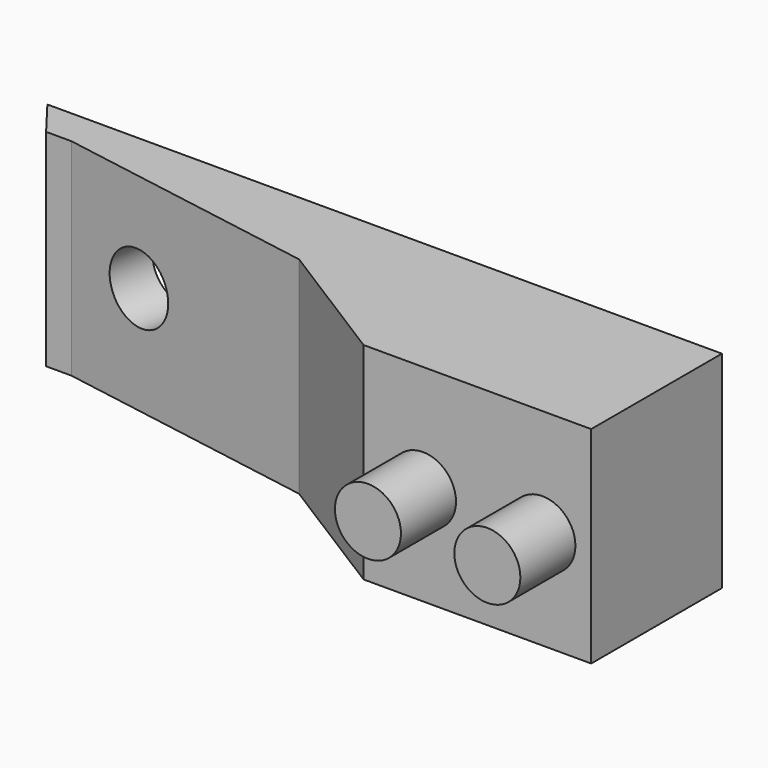
from build123d import *

# Parameters (mm, degrees)
PAD041_DEPTH    = 15
SKETCH095_R     = 2.5
POCKET045_DEPTH = 5
SKETCH096_R     = 2.4
PAD042_DEPTH    = 5


with BuildPart() as part:
    # Sketch094 → Pad041 (new body)
    with BuildSketch(Plane.XY):
        Polygon((30.122286, 194.043034), (13.580843, 194.042587), (4.144071, 199.977952), (-15.017249, 203.244653), (-16.854137, 203.244653), (-18.898529, 205.918312), (4.128235, 205.918312), (30.122286, 205.918312), (30.122286, 199.855942), align=None)
    extrude(amount=PAD041_DEPTH)

    # Sketch095 (on Face3 of Pad041) → Pocket045 (cut)
    with BuildSketch(Plane(origin=(33.2471900087, 195.0163320297, 0), x_dir=(0.9857768846, -0.1680593161, 0), z_dir=(-0.1680593161, -0.9857768846, 0))):
        with Locations((-43.193441, 7.824432)):
            Circle(SKETCH095_R)
    extrude(amount=-POCKET045_DEPTH, mode=Mode.SUBTRACT)

    # Sketch096 (on Face1 of Pocket045) → Pad042 (join)
    with BuildSketch(Plane(origin=(-0.0052436098, 194.0422198627, 0), x_dir=(0.9999999996, 2.7023e-05, 0), z_dir=(2.7023e-05, -0.9999999996, 0))):
        with Locations((17.901974, 7.158432)):
            Circle(SKETCH096_R)
        with Locations((26.5802, 7.158432)):
            Circle(SKETCH096_R)
    extrude(amount=PAD042_DEPTH)


with BuildPart() as part_1:
    # Body012 placement: moved
    add(part.part.moved(Location((0, 0, -65))))


solid = part_1.part
